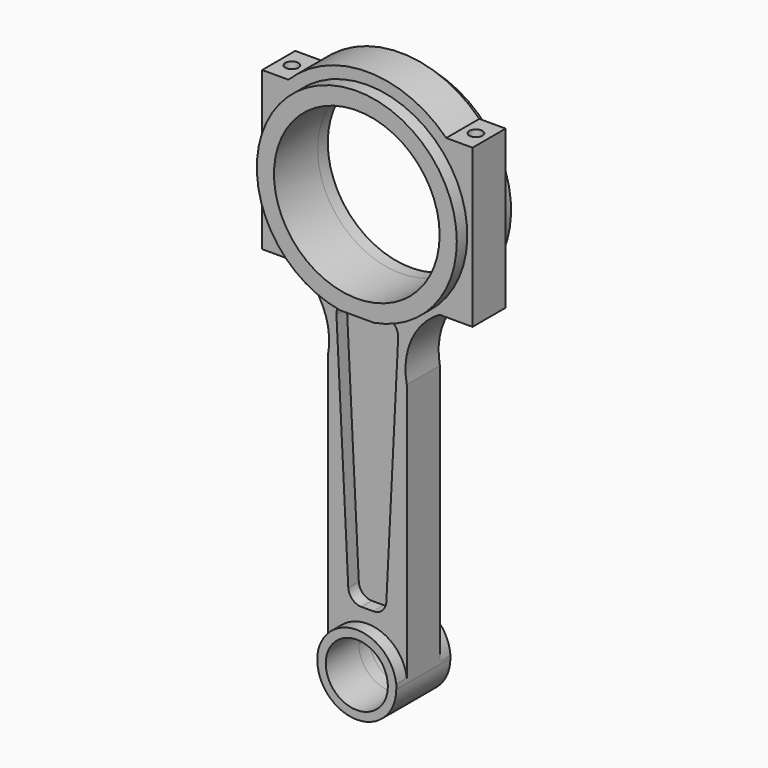
from build123d import *

# Parameters (mm, degrees)
F0_R      = 15
F0_R_2    = 40
F1_DEPTH  = 10
F3_DEPTH  = 6.35
F5_DEPTH  = 6.35
F6_R      = 40
F6_R_2    = 15
F7_DEPTH  = 6.35
F8_R      = 40.1872824047
F8_R_2    = 15
F9_DEPTH  = 6.35
F10_R     = 3.175
F11_DEPTH = 24.638


with BuildPart() as f1:
    # F0 (on Front) → F1 (new body, symmetric)
    with BuildSketch(Plane.XZ):
        with BuildLine():
            Line((-38.1, 238.1), (-50.8, 238.1))
            Line((-50.8, 238.1), (-50.8, 161.9))
            Line((-50.8, 161.9), (-34.8479530832, 161.9))
            ThreePointArc((-34.8479530832, 161.9), (-21.3567895263, 146.9813784556), (-19.05, 127))
            Line((-19.05, 127), (-19.05, 0))
            ThreePointArc((-19.05, 0), (0, -19.05), (19.05, 0))
            Line((19.05, 0), (19.05, 127))
            ThreePointArc((19.05, 127), (21.3567895263, 146.9813784556), (34.8479530832, 161.9))
            Line((34.8479530832, 161.9), (50.8, 161.9))
            Line((50.8, 161.9), (50.8, 238.1))
            Line((50.8, 238.1), (38.1, 238.1))
            ThreePointArc((38.1, 238.1), (0, 253.8815367264), (-38.1, 238.1))
        make_face()
        Circle(F0_R, mode=Mode.SUBTRACT)
        with Locations((0, 200)):
            Circle(F0_R_2, mode=Mode.SUBTRACT)
    extrude(amount=F1_DEPTH, both=True)

    # F2 (on face) → F3 (cut)
    with BuildSketch(Plane(origin=(0, 10, 0), x_dir=(-1, 0, 0), z_dir=(0, 1, 0))):
        with BuildLine():
            Line((8.5645674547, 152.4), (-8.5645674547, 152.4))
            ThreePointArc((-8.5645674547, 152.4), (-13.165442891, 150.4265791688), (-14.9066448066, 145.7328961324))
            Line((-14.9066448066, 145.7328961324), (-9.1916448066, 31.4328961324))
            ThreePointArc((-9.1916448066, 31.4328961324), (-7.2261466235, 27.1491245638), (-2.8495674547, 25.4))
            Line((-2.8495674547, 25.4), (2.8495674547, 25.4))
            ThreePointArc((2.8495674547, 25.4), (7.2261466235, 27.1491245638), (9.1916448066, 31.4328961324))
            Line((9.1916448066, 31.4328961324), (14.9066448066, 145.7328961324))
            ThreePointArc((14.9066448066, 145.7328961324), (13.165442891, 150.4265791688), (8.5645674547, 152.4))
        make_face()
    extrude(amount=-F3_DEPTH, mode=Mode.SUBTRACT)

    # F4 (on face) → F5 (cut)
    with BuildSketch(Plane.XZ.offset(10)):
        with BuildLine():
            Line((8.5598, 152.4), (-8.5693349095, 152.4))
            ThreePointArc((-8.5693349095, 152.4), (-13.1702103457, 150.4265791688), (-14.9114122614, 145.7328961324))
            Line((-14.9114122614, 145.7328961324), (-9.1964122614, 31.4328961324))
            ThreePointArc((-9.1964122614, 31.4328961324), (-7.2309140782, 27.1491245638), (-2.8543349095, 25.4))
            Line((-2.8543349095, 25.4), (2.8448, 25.4))
            ThreePointArc((2.8448, 25.4), (7.2213791688, 27.1491245638), (9.1868773519, 31.4328961324))
            Line((9.1868773519, 31.4328961324), (14.9018773519, 145.7328961324))
            ThreePointArc((14.9018773519, 145.7328961324), (13.1606754362, 150.4265791688), (8.5598, 152.4))
        make_face()
    extrude(amount=-F5_DEPTH, mode=Mode.SUBTRACT)

    # F6 (on face) → F7 (join, symmetric)
    with BuildSketch(Plane.XZ.offset(10)):
        with BuildLine():
            ThreePointArc((8.1649718925, 152.4), (36.9239471908, 168.8704498932), (48.295204379, 200))
            ThreePointArc((48.295204379, 200), (-31.1295501068, 236.9239471908), (-8.1649718925, 152.4))
            Line((-8.1649718925, 152.4), (8.1649718925, 152.4))
        make_face()
        with Locations((0, 200)):
            Circle(F6_R, mode=Mode.SUBTRACT)
        with BuildLine():
            Line((19.05, 0), (19.05, 2.2343365964))
            ThreePointArc((19.05, 2.2343365964), (0, 19.1805828907), (-19.05, 2.2343365964))
            Line((-19.05, 2.2343365964), (-19.05, 0))
            ThreePointArc((-19.05, 0), (0, -19.05), (19.05, 0))
        make_face()
        Circle(F6_R_2, mode=Mode.SUBTRACT)
    extrude(amount=F7_DEPTH, both=True)

    # F8 (on face) → F9 (join, symmetric)
    with BuildSketch(Plane(origin=(0, 10, 0), x_dir=(-1, 0, 0), z_dir=(0, 1, 0))):
        with BuildLine():
            ThreePointArc((8.5645674547, 152.4), (37.1034478409, 168.976686605), (48.364365143, 200))
            ThreePointArc((48.364365143, 200), (-31.023313395, 237.1034478409), (-8.5645674547, 152.4))
            Line((-8.5645674547, 152.4), (8.5645674547, 152.4))
        make_face()
        with Locations((0, 200)):
            Circle(F8_R, mode=Mode.SUBTRACT)
        with BuildLine():
            Line((19.05, 0), (19.05, 1.2599718654))
            ThreePointArc((19.05, 1.2599718654), (0, 19.091621961), (-19.05, 1.2599718654))
            Line((-19.05, 1.2599718654), (-19.05, 0))
            ThreePointArc((-19.05, 0), (0, -19.05), (19.05, 0))
        make_face()
        Circle(F8_R_2, mode=Mode.SUBTRACT)
    extrude(amount=F9_DEPTH, both=True)

    # F10 (on face) → F11 (cut)
    with BuildSketch(Plane.XY.offset(238.1)):
        with Locations((-44.45, 0)):
            Circle(F10_R)
        with Locations((44.45, 0)):
            Circle(F10_R)
    extrude(amount=-F11_DEPTH, mode=Mode.SUBTRACT)


solid = f1.part
